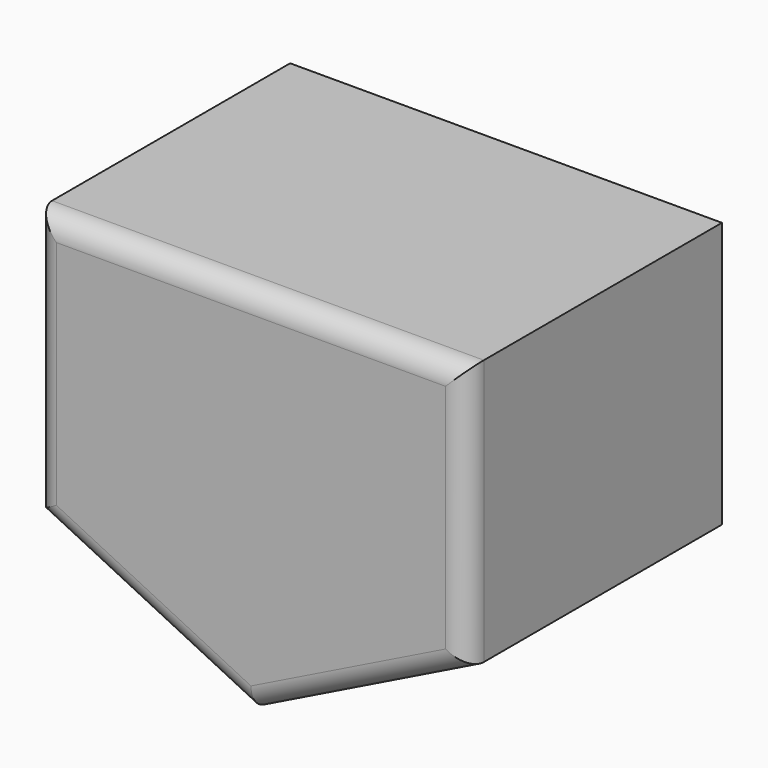
from build123d import *

# Parameters (mm, degrees)
F0_W     = 103.187494
F0_H     = 63.5
F1_DEPTH = 76.2
F2_R     = 5.08


with BuildPart() as f1:
    # F0 (on Front) → F1 (new body)
    with BuildSketch(Plane.XZ):
        Rectangle(F0_W, F0_H)
        Polygon((51.593747, -31.75), (-51.593747, -31.75), (0, -57.150003), align=None)
    extrude(amount=F1_DEPTH)

    # F2
    f2_edges = [f1.edges().sort_by_distance(p)[0] for p in [
        (0, -76.2, 31.75),
        (-51.593747, -76.2, 0),
        (-25.796873, -76.2, -44.450001),
        (25.796873, -76.2, -44.450001),
        (51.593747, -76.2, 0),
    ]]
    fillet(f2_edges, radius=F2_R)


solid = f1.part
